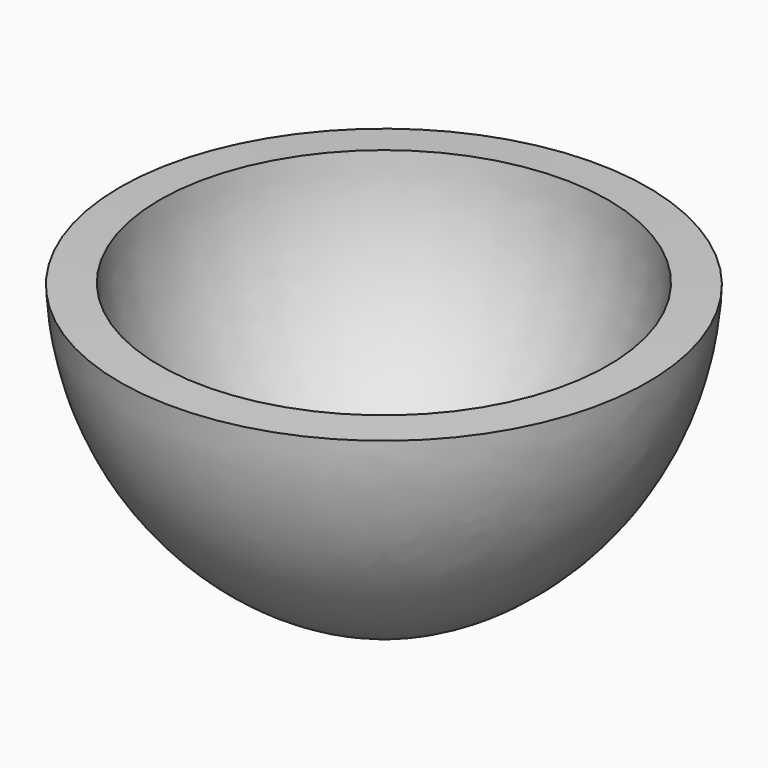
from build123d import *


with BuildPart() as f1:
    # F0 (on Front) → F1 (revolve)
    with BuildSketch(Plane.XZ):
        with BuildLine():
            ThreePointArc((0, 0), (-19.72875, 11.062067), (-28.188379, 32.038901))
            Line((-28.188379, 32.038901), (-33.183291, 31.813392))
            ThreePointArc((-33.183291, 31.813392), (-23.482658, 7.759314), (-0.859755, -4.925528))
            Line((-0.859755, -4.925528), (0, -4.925528))
            Line((0, -4.925528), (0, 0))
        make_face()
    revolve(axis=Axis((0, 0, -2.462764), (0, 0, -1)))


solid = f1.part
